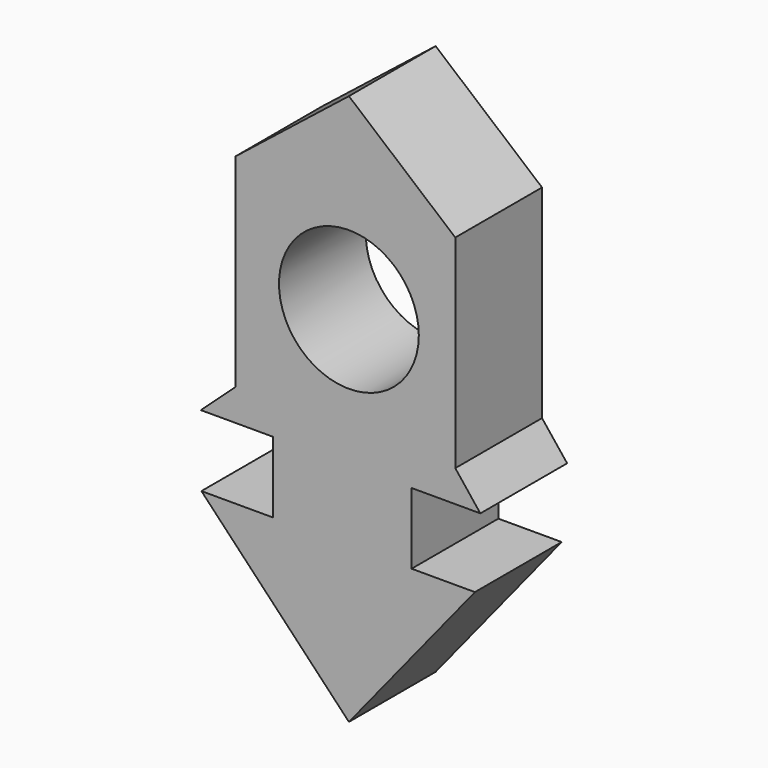
from build123d import *

# Parameters (mm, degrees)
F0_R     = 16.3717521016
F1_DEPTH = 25.4
F2_W     = 17.7644602954
F2_H     = 16.6454371065
F2_W_2   = 14.6871497855
F3_DEPTH = 25.4


with BuildPart() as f1:
    # F0 (on Front) → F1 (new body)
    with BuildSketch(Plane.XZ):
        Polygon((-34.6729978919, 0), (0, 0), (0, 7.4135139585), (-26.5600979328, 7.4135139585), align=None)
        Polygon((0, 7.4135139585), (0, 0), (30.7897310704, 0), (24.9148663133, 7.4135139585), align=None)
        Polygon((-26.5600979328, 7.4135139585), (0, 7.4135139585), (24.9148663133, 7.4135139585), (24.9148663133, 54.9719035625), (-26.5600979328, 54.9719035625), align=None)
        with Locations((0, 32.0319756866)):
            Circle(F0_R, mode=Mode.SUBTRACT)
        Polygon((0, 76.0195449596), (-26.5600979328, 54.9719035625), (24.9148663133, 54.9719035625), align=None)
    extrude(amount=F1_DEPTH)

    # F2 (on Front) → F3 (join)
    with BuildSketch(Plane.XZ):
        with Locations((-8.8822301477, -8.3227185532)):
            Rectangle(F2_W, F2_H)
        with Locations((7.3435748927, -8.3227185532)):
            Rectangle(F2_W_2, F2_H)
        Polygon((-17.7644602954, -16.6454371065), (-34.5497727394, -16.6454371065), (0, -53.0136190355), (29.5141804963, -16.6454371065), (14.6871497855, -16.6454371065), (0, -16.6454371065), align=None)
    extrude(amount=F3_DEPTH)


solid = f1.part
